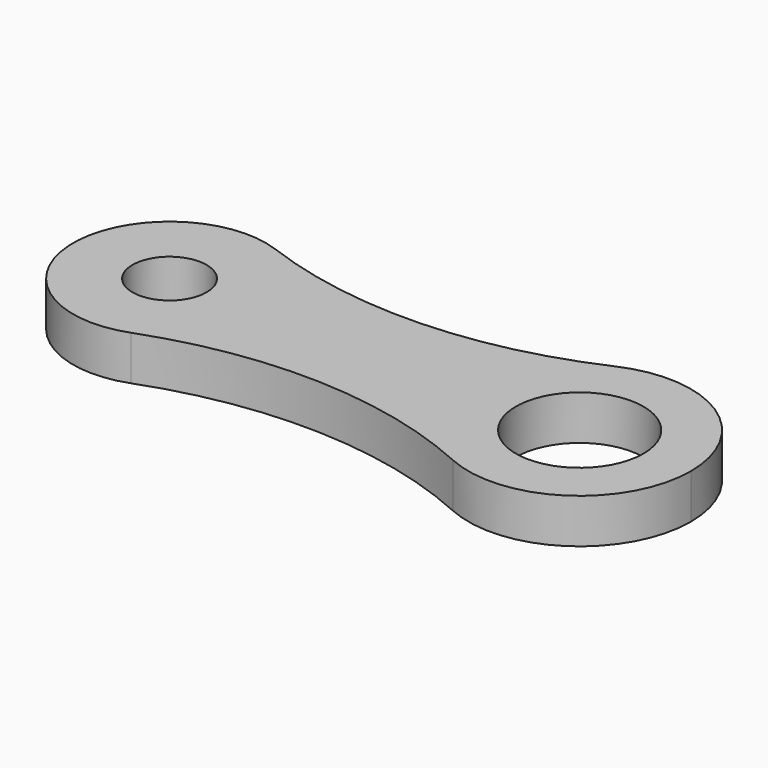
from build123d import *

# Parameters (mm, degrees)
F0_R     = 4.3
F0_R_2   = 2.5
F1_DEPTH = 3


with BuildPart() as f1:
    # F0 (on Top) → F1 (new body)
    with BuildSketch(Plane.XY):
        with BuildLine():
            ThreePointArc((22.069356, -6.838101), (29.220944, -6.299001), (32.65, 0))
            ThreePointArc((32.65, 0), (29.220944, 6.299001), (22.069356, 6.838101))
            ThreePointArc((22.069356, 6.838101), (17.65, 0), (22.069356, -6.838101))
        make_face()
        with Locations((25.15, 0)):
            Circle(F0_R, mode=Mode.SUBTRACT)
        with BuildLine():
            ThreePointArc((22.069356, -6.838101), (17.65, 0), (22.069356, 6.838101))
            ThreePointArc((22.069356, 6.838101), (10.992176, 4.2635), (-0.232372, 6.091622))
            ThreePointArc((-0.232372, 6.091622), (2.838051, 3.708801), (4, 0))
            ThreePointArc((4, 0), (2.838051, -3.708801), (-0.232372, -6.091622))
            ThreePointArc((-0.232372, -6.091622), (10.992176, -4.2635), (22.069356, -6.838101))
        make_face()
        with BuildLine():
            ThreePointArc((4, 0), (2.838051, 3.708801), (-0.232372, 6.091622))
            ThreePointArc((-0.232372, 6.091622), (-9, 0), (-0.232372, -6.091622))
            ThreePointArc((-0.232372, -6.091622), (2.838051, -3.708801), (4, 0))
        make_face()
        with Locations((-2.5, 0)):
            Circle(F0_R_2, mode=Mode.SUBTRACT)
    extrude(amount=F1_DEPTH)


solid = f1.part
